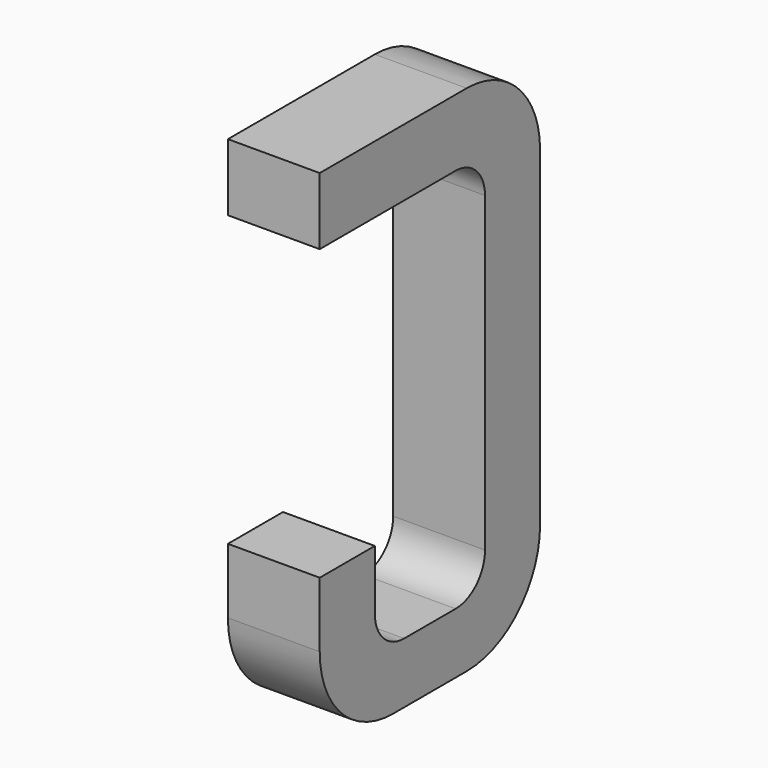
from build123d import *

# Parameters (mm, degrees)
BOX036_W     = 0.5
BOX036_H     = 1.5
BOX036_DEPTH = 2.795
FILLET091_R  = 0.5
FILLET094_R  = 0.5
FILLET090_R  = 0.5
BOX026_W     = 0.75
BOX026_H     = 2.1
BOX026_DEPTH = 1
FILLET092_R  = 0.2
FILLET095_R  = 0.2
FILLET086_R  = 0.2
FILLET089_R  = 0.2
BOX048_W     = 1
BOX048_H     = 1.575
BOX048_DEPTH = 3


with BuildPart() as part:
    # Box036 → Box036 (join)
    with BuildSketch(Plane(origin=(-0.25, 11.125, 0), x_dir=(1, 0, 0), z_dir=(0, 0, 1))):
        with Locations((0.25, 0.75)):
            Rectangle(BOX036_W, BOX036_H)
    extrude(amount=BOX036_DEPTH)

    # Fillet091
    fillet091_edges = [part.edges().sort_by_distance(p)[0] for p in [
        (0, 12.625, 0),
    ]]
    fillet(fillet091_edges, radius=FILLET091_R)

    # Fillet094
    fillet094_edges = [part.edges().sort_by_distance(p)[0] for p in [
        (0, 12.625, 2.795),
    ]]
    fillet(fillet094_edges, radius=FILLET094_R)

    # Fillet090
    fillet090_edges = [part.edges().sort_by_distance(p)[0] for p in [
        (0, 11.125, 0),
    ]]
    fillet(fillet090_edges, radius=FILLET090_R)

    # Box026 → Box026 (cut)
    with BuildSketch(Plane(origin=(-0.5, 11.5, 0.33), x_dir=(0, 1, 0), z_dir=(1, 0, 0))):
        with Locations((0.375, 1.05)):
            Rectangle(BOX026_W, BOX026_H)
    extrude(amount=BOX026_DEPTH, mode=Mode.SUBTRACT)

    # Fillet092
    fillet092_edges = [part.edges().sort_by_distance(p)[0] for p in [
        (0, 11.5, 0.33),
    ]]
    fillet(fillet092_edges, radius=FILLET092_R)

    # Fillet095
    fillet095_edges = [part.edges().sort_by_distance(p)[0] for p in [
        (0, 12.25, 0.33),
    ]]
    fillet(fillet095_edges, radius=FILLET095_R)

    # Fillet086
    fillet086_edges = [part.edges().sort_by_distance(p)[0] for p in [
        (0, 11.5, 2.43),
    ]]
    fillet(fillet086_edges, radius=FILLET086_R)

    # Fillet089
    fillet089_edges = [part.edges().sort_by_distance(p)[0] for p in [
        (0, 12.25, 2.43),
    ]]
    fillet(fillet089_edges, radius=FILLET089_R)

    # Box048 → Box048 (cut)
    with BuildSketch(Plane(origin=(-1, 11, 0.855), x_dir=(0, 1, 0), z_dir=(1, 0, 0))):
        with Locations((0.5, 0.7875)):
            Rectangle(BOX048_W, BOX048_H)
    extrude(amount=BOX048_DEPTH, mode=Mode.SUBTRACT)


with BuildPart() as part_1:
    # Body013 placement: moved
    add(part.part.moved(Location((-3.81, 0, 0))))


solid = part_1.part
